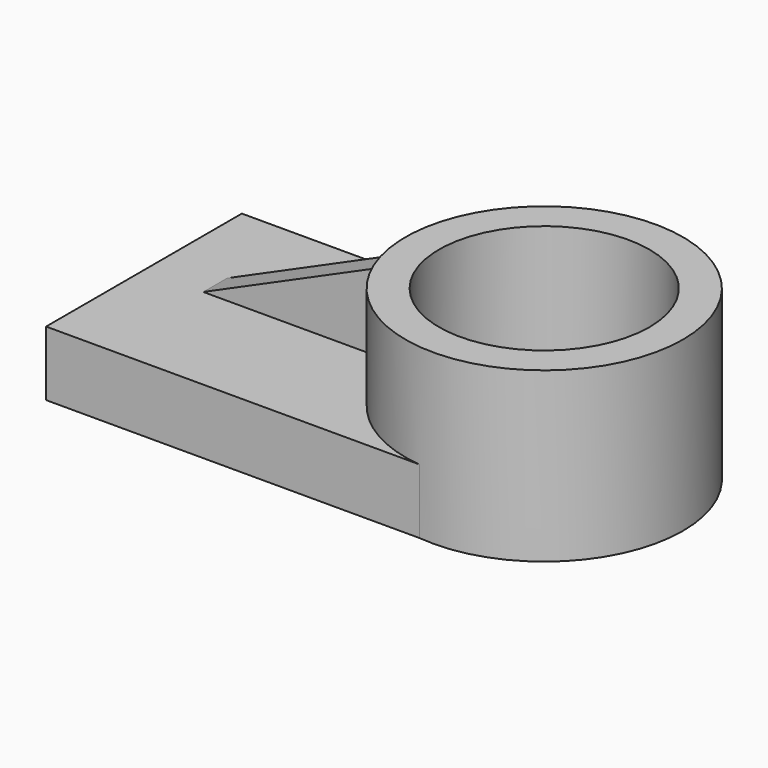
from build123d import *

# Parameters (mm, degrees)
F0_R     = 54.4188392039
F0_R_2   = 41.2465801868
F1_DEPTH = 66.04
F2_W     = 151.658192277
F2_H     = 95.9565676749
F3_DEPTH = 25.4
F4_DEPTH = 50.8
F5_W     = 11.7014325224
F5_H     = 33.2940161884
F6_DEPTH = 101.6
F8_DEPTH = 25.4


with BuildPart() as f1:
    # F0 (on Top) → F1 (new body)
    with BuildSketch(Plane.XY):
        with Locations((75.9313777089, 0)):
            Circle(F0_R)
        with Locations((75.9313777089, 0)):
            Circle(F0_R_2, mode=Mode.SUBTRACT)
    extrude(amount=F1_DEPTH)

    # F2 (on Top) → F3 (join)
    with BuildSketch(Plane.XY):
        with Locations((-0.2903938293, -6.1472672969)):
            Rectangle(F2_W, F2_H)
    extrude(amount=F3_DEPTH)

    # F4 (cut): a face of the model
    f4_faces = [f1.faces().sort_by_distance(p)[0] for p in [
        (58.2134002608, 0, 25.4),
    ]]
    extrude(f4_faces, amount=-F4_DEPTH, mode=Mode.SUBTRACT)

    # F5 (on face) → F6 (join)
    with BuildSketch(Plane(origin=(-76.1194899678, 0, 0), x_dir=(0, -1, 0), z_dir=(-1, 0, 0))):
        with Locations((0.2965510357, 42.0470080942)):
            Rectangle(F5_W, F5_H)
    extrude(amount=-F6_DEPTH)

    # F7 (on face) → F8 (cut)
    with BuildSketch(Plane.XZ.offset(6.1472672969)):
        Polygon((-76.1194899678, 25.4), (-52.8771914542, 25.4), (21.8608574129, 58.6940161884), (-76.1194899678, 58.6940161884), align=None)
    extrude(amount=-F8_DEPTH, mode=Mode.SUBTRACT)


solid = f1.part
